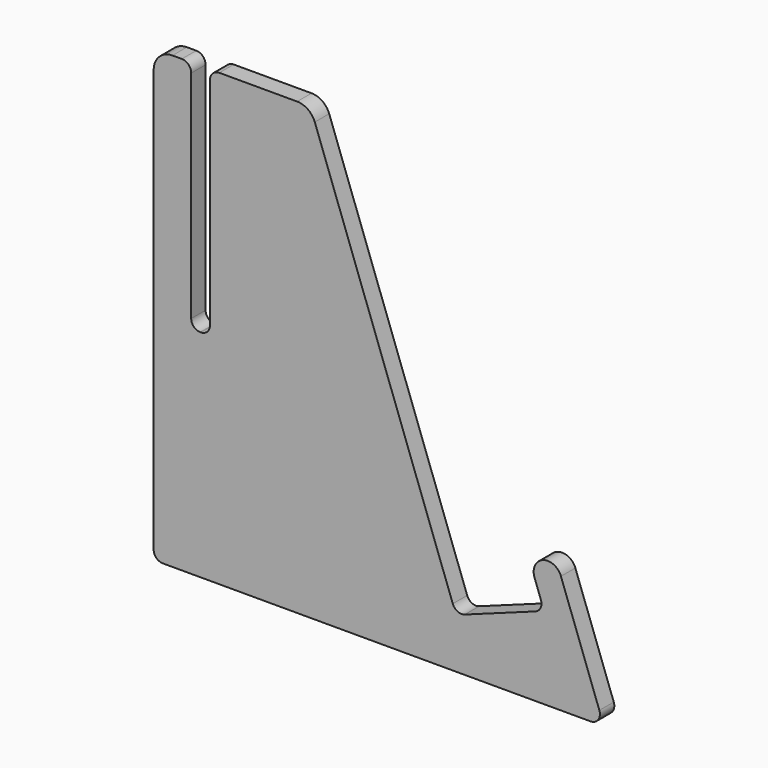
from build123d import *

# Parameters (mm, degrees)
F1_DEPTH = 6.096


with BuildPart() as f1:
    # F0 (on Front) → F1 (new body)
    with BuildSketch(Plane.XZ):
        with BuildLine():
            Line((-147.727233, 152.970009), (-150.902233, 152.970009))
            ThreePointArc((-150.902233, 152.970009), (-155.392361, 151.110138), (-157.252233, 146.620009))
            Line((-157.252233, 146.620009), (-157.252233, 3.654914))
            ThreePointArc((-157.252233, 3.654914), (-156.31668, 1.441475), (-154.077233, 0.570009))
            Line((-154.077233, 0.570009), (-9.386603, 0.570009))
            ThreePointArc((-9.386603, 0.570009), (-6.785795, 1.923904), (-6.403079, 4.830923))
            Line((-6.403079, 4.830923), (-19.402801, 40.547366))
            ThreePointArc((-19.402801, 40.547366), (-25.506958, 43.393782), (-28.353373, 37.289625))
            Line((-28.353373, 37.289625), (-26.181545, 31.322576))
            ThreePointArc((-26.181545, 31.322576), (-26.287542, 28.89485), (-28.079155, 27.253138))
            Line((-28.079155, 27.253138), (-51.947348, 18.565827))
            ThreePointArc((-51.947348, 18.565827), (-54.375075, 18.671824), (-56.016786, 20.463437))
            Line((-56.016786, 20.463437), (-102.724504, 148.791837))
            ThreePointArc((-102.724504, 148.791837), (-105.049342, 151.821625), (-108.691552, 152.970009))
            Line((-108.691552, 152.970009), (-135.027233, 152.970009))
            ThreePointArc((-135.027233, 152.970009), (-137.272297, 152.040074), (-138.202233, 149.795009))
            Line((-138.202233, 149.795009), (-138.202233, 76.643009))
            ThreePointArc((-138.202233, 76.643009), (-139.094972, 74.487748), (-141.250233, 73.595009))
            Line((-141.250233, 73.595009), (-141.504233, 73.595009))
            ThreePointArc((-141.504233, 73.595009), (-143.659495, 74.487748), (-144.552233, 76.643009))
            Line((-144.552233, 76.643009), (-144.552233, 149.795009))
            ThreePointArc((-144.552233, 149.795009), (-145.482169, 152.040074), (-147.727233, 152.970009))
        make_face()
    extrude(amount=-F1_DEPTH)


solid = f1.part
